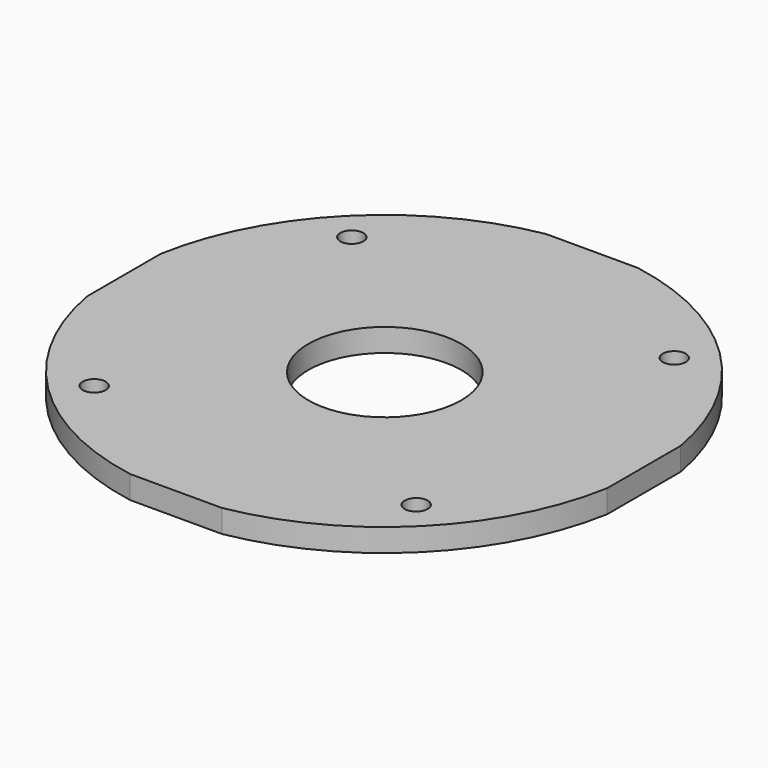
from build123d import *

# Parameters (mm, degrees)
F1_DEPTH = 3
F2_R     = 1.5
F2_R_2   = 10
F3_DEPTH = 25.4


with BuildPart() as f1:
    # F0 (on Top) → F1 (new body)
    with BuildSketch(Plane.XY):
        with BuildLine():
            Line((5.77942, 34.145736), (-6.22058, 34.145736))
            ThreePointArc((-6.22058, 34.145736), (-24.633691, 24.558848), (-34.22058, 6.145736))
            Line((-34.22058, 6.145736), (-34.22058, -5.854264))
            ThreePointArc((-34.22058, -5.854264), (-24.633691, -24.267375), (-6.22058, -33.854264))
            Line((-6.22058, -33.854264), (5.77942, -33.854264))
            ThreePointArc((5.77942, -33.854264), (24.192531, -24.267375), (33.77942, -5.854264))
            Line((33.77942, -5.854264), (33.77942, 6.145736))
            ThreePointArc((33.77942, 6.145736), (24.192531, 24.558848), (5.77942, 34.145736))
        make_face()
    extrude(amount=F1_DEPTH)

    # F2 (on face) → F3 (cut)
    with BuildSketch(Plane.XY.offset(3)):
        with Locations((21.121062, 20.925415)):
            Circle(F2_R)
        with Locations((-21.28124, 21.206397)):
            Circle(F2_R)
        with Locations((-21.28124, -20.914924)):
            Circle(F2_R)
        with Locations((20.84008, -20.914924)):
            Circle(F2_R)
        Circle(F2_R_2)
    extrude(amount=-F3_DEPTH, mode=Mode.SUBTRACT)


solid = f1.part
